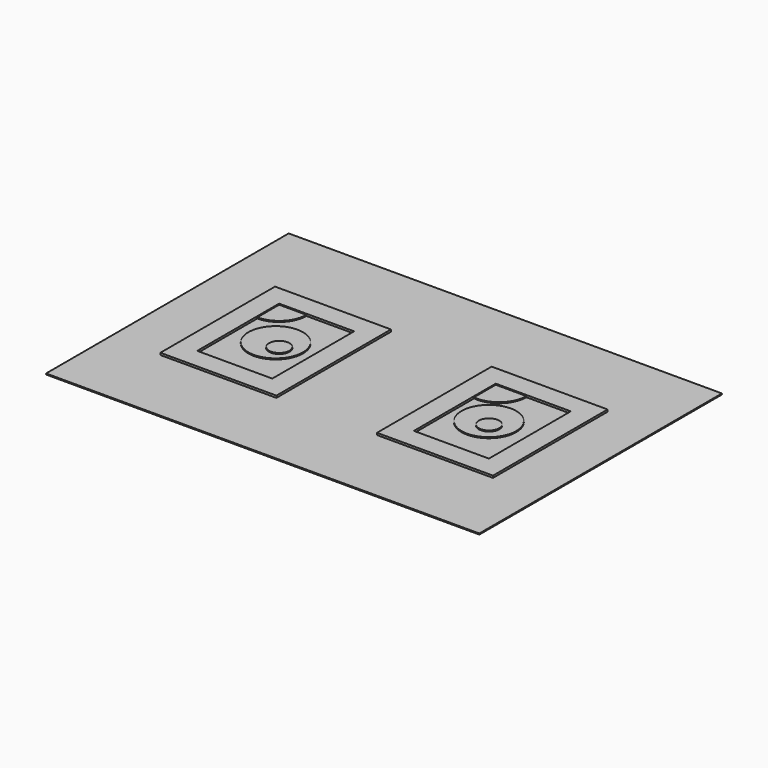
from build123d import *

# Parameters (mm, degrees)
F0_W     = 127
F0_H     = 88.9
F1_DEPTH = 0.3
F2_R     = 8
F2_R_2   = 3
F3_DEPTH = 0.3
F2_W     = 33.9999994338
F2_H     = 41.9999994338
F4_DEPTH = 0.6


with BuildPart() as f1:
    # F0 (on Top) → F1 (new body)
    with BuildSketch(Plane.XY):
        Rectangle(F0_W, F0_H)
    extrude(amount=F1_DEPTH)

    # F2 (on face) → F3 (join)
    with BuildSketch(Plane.XY.offset(0.3)):
        with Locations((-31.75, 0)):
            Circle(F2_R)
        with Locations((-29.3087995864, -1.7437145812)):
            Circle(F2_R_2, mode=Mode.SUBTRACT)
        with Locations((30.75, 0)):
            Circle(F2_R)
        with Locations((32.1912004136, -1.7437145812)):
            Circle(F2_R_2, mode=Mode.SUBTRACT)
        with BuildLine():
            Line((-42.75, 15), (-42.75, 7))
            ThreePointArc((-42.75, 7), (-37.0931457505, 9.3431457505), (-34.75, 15))
            Line((-34.75, 15), (-42.75, 15))
        make_face()
        with BuildLine():
            ThreePointArc((20.75, 7.0627460668), (27.0415026221, 9), (29.75, 15))
            Line((29.75, 15), (20.75, 15))
            Line((20.75, 15), (20.75, 7.0627460668))
        make_face()
        with Locations((-29.3087995864, -1.7437145812)):
            Circle(F2_R_2)
        with Locations((32.1912004136, -1.7437145812)):
            Circle(F2_R_2)
    extrude(amount=F3_DEPTH)

    # F2 (on face) → F4 (join)
    with BuildSketch(Plane.XY.offset(0.3)):
        with Locations((-31.75, 0)):
            Rectangle(F2_W, F2_H)
        Polygon((-20.75, 15), (-20.75, -15), (-42.75, -15), (-42.75, 7), (-42.75, 15), (-34.75, 15), align=None, mode=Mode.SUBTRACT)
        with Locations((31.75, 0)):
            Rectangle(F2_W, F2_H)
        Polygon((29.75, 15), (42.75, 15), (42.75, -15), (20.75, -15), (20.75, 7.0627460668), (20.75, 15), align=None, mode=Mode.SUBTRACT)
        with Locations((-29.3087995864, -1.7437145812)):
            Circle(F2_R_2)
        with Locations((32.1912004136, -1.7437145812)):
            Circle(F2_R_2)
    extrude(amount=F4_DEPTH)


solid = f1.part
